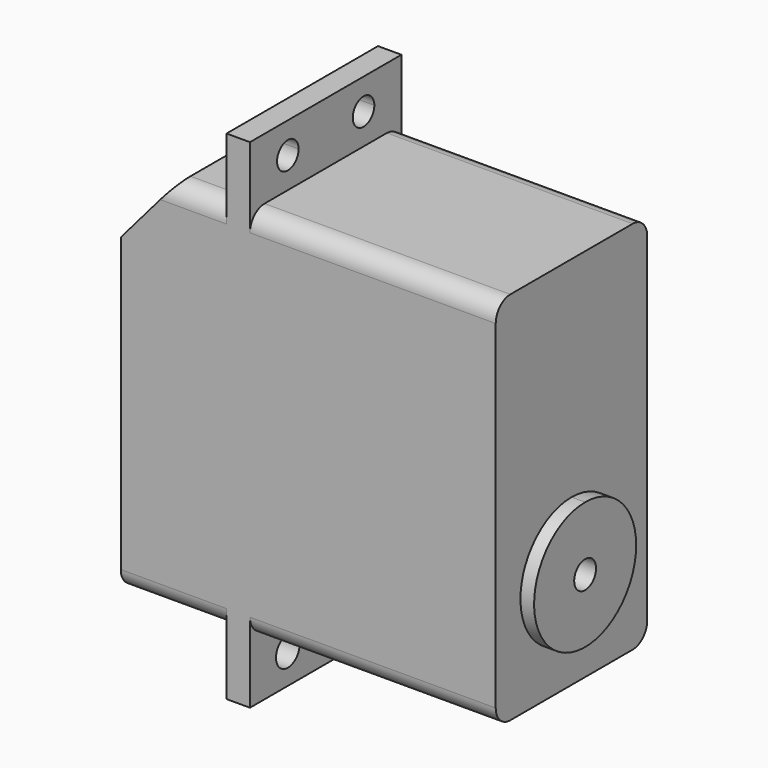
from build123d import *

# Parameters (mm, degrees)
F1_DEPTH  = 20.78
F3_DEPTH  = 10
F5_DEPTH  = 25
F6_R      = 2
F8_DEPTH  = 1.5
F9_R      = 1.5
F10_DEPTH = 50
F11_R     = 7
F12_DEPTH = 2
F13_R     = 2.5
F14_DEPTH = 3
F15_R     = 0.5


with BuildPart() as f1:
    # F0 (on Front) → F1 (new body)
    with BuildSketch(Plane.XZ):
        Polygon((-6.4, -20.575), (20.575, -20.575), (20.575, 0), (20.575, 20.575), (-6.4, 20.575), (-6.4, 27.323307), (-8.97, 27.323307), (-8.97, 20.575), (-14.525, 20.575), (-20.575, 13.525), (-20.575, -20.575), (-8.97, -20.575), (-8.97, -27.323307), (-6.4, -27.323307), align=None)
    extrude(amount=F1_DEPTH)

    # F2 (on face) → F3 (cut)
    with BuildSketch(Plane(origin=(-8.97, 0, 0), x_dir=(0, -1, 0), z_dir=(-1, 0, 0))):
        with BuildLine():
            ThreePointArc((17.061893, 23.949154), (15.585, 25.426046), (14.108107, 23.949154))
            Line((14.108107, 23.949154), (17.061893, 23.949154))
        make_face()
        with BuildLine():
            Line((17.061893, 23.949154), (14.108107, 23.949154))
            ThreePointArc((14.108107, 23.949154), (15.585, 22.472261), (17.061893, 23.949154))
        make_face()
        with BuildLine():
            ThreePointArc((3.718107, 23.949154), (5.195, 22.472261), (6.671893, 23.949154))
            Line((6.671893, 23.949154), (3.718107, 23.949154))
        make_face()
        with BuildLine():
            Line((3.718107, 23.949154), (6.671893, 23.949154))
            ThreePointArc((6.671893, 23.949154), (5.195, 25.426046), (3.718107, 23.949154))
        make_face()
    extrude(amount=-F3_DEPTH, mode=Mode.SUBTRACT)

    # F4 (on face) → F5 (cut)
    with BuildSketch(Plane(origin=(-8.97, 0, 0), x_dir=(0, -1, 0), z_dir=(-1, 0, 0))):
        with BuildLine():
            ThreePointArc((17.20631, -23.949154), (15.585, -22.327844), (13.96369, -23.949154))
            Line((13.96369, -23.949154), (17.20631, -23.949154))
        make_face()
        with BuildLine():
            Line((17.20631, -23.949154), (13.96369, -23.949154))
            ThreePointArc((13.96369, -23.949154), (15.585, -25.570463), (17.20631, -23.949154))
        make_face()
        with BuildLine():
            ThreePointArc((3.57369, -23.949154), (5.195, -25.570463), (6.81631, -23.949154))
            Line((6.81631, -23.949154), (3.57369, -23.949154))
        make_face()
        with BuildLine():
            Line((3.57369, -23.949154), (6.81631, -23.949154))
            ThreePointArc((6.81631, -23.949154), (5.195, -22.327844), (3.57369, -23.949154))
        make_face()
    extrude(amount=-F5_DEPTH, mode=Mode.SUBTRACT)

    # F6
    f6_edges = [f1.edges().sort_by_distance(p)[0] for p in [
        (7.0875, -20.78, 20.575),
        (-11.7475, -20.78, 20.575),
        (-11.7475, 0, 20.575),
        (7.0875, 0, 20.575),
        (7.0875, -20.78, -20.575),
        (-14.7725, -20.78, -20.575),
        (7.0875, 0, -20.575),
        (-14.7725, 0, -20.575),
    ]]
    fillet(f6_edges, radius=F6_R)

    # F7 (on face) → F8 (join)
    with BuildSketch(Plane.YZ.offset(20.575)):
        with BuildLine():
            ThreePointArc((-10.39, -2.425), (-15.339747, -14.374747), (-3.39, -9.425))
            ThreePointArc((-3.39, -9.425), (-5.440253, -4.475253), (-10.39, -2.425))
        make_face()
    extrude(amount=F8_DEPTH)

    # F9 (on face) → F10 (cut)
    with BuildSketch(Plane.YZ.offset(22.075)):
        with Locations((-10.39, -9.425)):
            Circle(F9_R)
    extrude(amount=-F10_DEPTH, mode=Mode.SUBTRACT)

    # F11 (on face) → F12 (join)
    with BuildSketch(Plane(origin=(-20.575, 0, 0), x_dir=(0, -1, 0), z_dir=(-1, 0, 0))):
        with Locations((10.39, -9.425)):
            Circle(F11_R)
    extrude(amount=F12_DEPTH)

    # F13 (on face) → F14 (join)
    with BuildSketch(Plane(origin=(-22.575, 0, 0), x_dir=(0, -1, 0), z_dir=(-1, 0, 0))):
        with Locations((10.39, -9.425)):
            Circle(F13_R)
    extrude(amount=F14_DEPTH)

    # F15
    f15_edges = [f1.edges().sort_by_distance(p)[0] for p in [
        (-25.575, -7.89, -9.425),
    ]]
    fillet(f15_edges, radius=F15_R)


solid = f1.part
